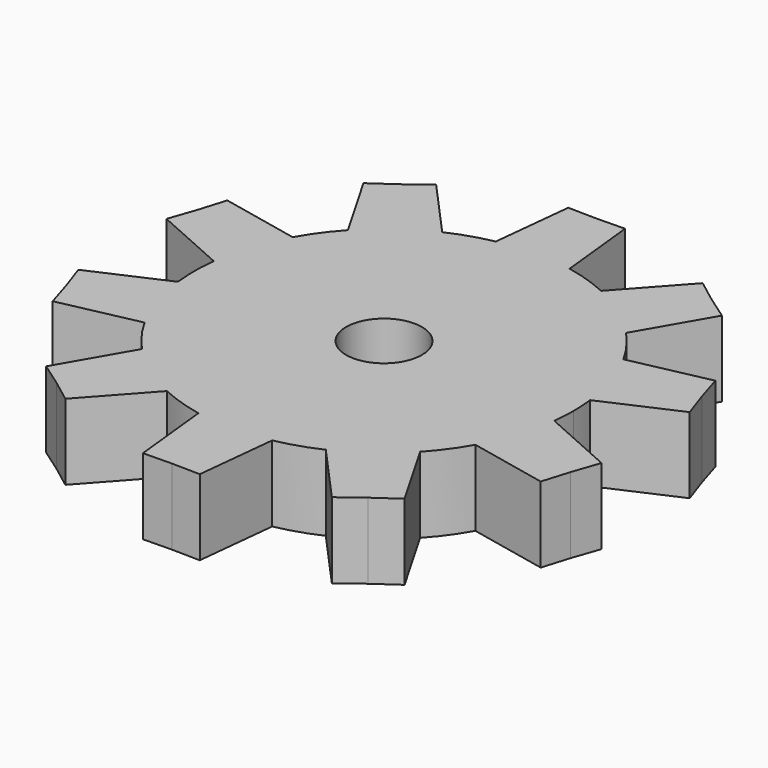
from build123d import *

# Parameters (mm, degrees)
F1_DEPTH = 2
F2_R     = 1
F3_DEPTH = 2.001


with BuildPart() as f1:
    # F0 (on Top) → F1 (new body)
    with BuildSketch(Plane.XY):
        with BuildLine():
            ThreePointArc((4.965015, -0.590448), (4.991246, -0.295742), (5, 0))
            ThreePointArc((5, 0), (4.991246, 0.295742), (4.965015, 0.590448))
            ThreePointArc((4.965015, 0.590448), (4.755283, 1.545085), (4.363838, 2.44068))
            ThreePointArc((4.363838, 2.44068), (4.045085, 2.938926), (3.669725, 3.396045))
            ThreePointArc((3.669725, 3.396045), (2.938926, 4.045085), (2.095823, 4.539551))
            ThreePointArc((2.095823, 4.539551), (1.545085, 4.755283), (0.972725, 4.904468))
            ThreePointArc((0.972725, 4.904468), (0, 5), (-0.972725, 4.904468))
            ThreePointArc((-0.972725, 4.904468), (-1.545085, 4.755283), (-2.095823, 4.539551))
            ThreePointArc((-2.095823, 4.539551), (-2.938926, 4.045085), (-3.669725, 3.396045))
            ThreePointArc((-3.669725, 3.396045), (-4.045085, 2.938926), (-4.363838, 2.44068))
            ThreePointArc((-4.363838, 2.44068), (-4.755283, 1.545085), (-4.965015, 0.590448))
            ThreePointArc((-4.965015, 0.590448), (-5, 0), (-4.965015, -0.590448))
            ThreePointArc((-4.965015, -0.590448), (-4.755283, -1.545085), (-4.363838, -2.44068))
            ThreePointArc((-4.363838, -2.44068), (-4.045085, -2.938926), (-3.669725, -3.396045))
            ThreePointArc((-3.669725, -3.396045), (-2.938926, -4.045085), (-2.095823, -4.539551))
            ThreePointArc((-2.095823, -4.539551), (-1.545085, -4.755283), (-0.972725, -4.904468))
            ThreePointArc((-0.972725, -4.904468), (0, -5), (0.972725, -4.904468))
            ThreePointArc((0.972725, -4.904468), (1.545085, -4.755283), (2.095823, -4.539551))
            ThreePointArc((2.095823, -4.539551), (2.938926, -4.045085), (3.669725, -3.396045))
            ThreePointArc((3.669725, -3.396045), (4.045085, -2.938926), (4.363838, -2.44068))
            ThreePointArc((4.363838, -2.44068), (4.755283, -1.545085), (4.965015, -0.590448))
        make_face()
        with BuildLine():
            ThreePointArc((4.363838, 2.44068), (4.755283, 1.545085), (4.965015, 0.590448))
            Line((4.965015, 0.590448), (6.902259, 1.454083))
            Line((6.902259, 1.454083), (6.657702, 2.163218))
            Line((6.657702, 2.163218), (6.438733, 2.880668))
            Line((6.438733, 2.880668), (4.363838, 2.44068))
        make_face()
        with BuildLine():
            Line((6.902259, -1.454083), (4.965015, -0.590448))
            ThreePointArc((4.965015, -0.590448), (4.755283, -1.545085), (4.363838, -2.44068))
            Line((4.363838, -2.44068), (6.438733, -2.880668))
            Line((6.438733, -2.880668), (6.657702, -2.163218))
            Line((6.657702, -2.163218), (6.902259, -1.454083))
        make_face()
        with BuildLine():
            ThreePointArc((2.095823, 4.539551), (2.938926, 4.045085), (3.669725, 3.396045))
            Line((3.669725, 3.396045), (4.729356, 5.233424))
            Line((4.729356, 5.233424), (4.114686, 5.663379))
            Line((4.114686, 5.663379), (3.515831, 6.115102))
            Line((3.515831, 6.115102), (2.095823, 4.539551))
        make_face()
        with BuildLine():
            Line((4.729356, -5.233424), (3.669725, -3.396045))
            ThreePointArc((3.669725, -3.396045), (2.938926, -4.045085), (2.095823, -4.539551))
            Line((2.095823, -4.539551), (3.515831, -6.115102))
            Line((3.515831, -6.115102), (4.114686, -5.663379))
            Line((4.114686, -5.663379), (4.729356, -5.233424))
        make_face()
        with BuildLine():
            ThreePointArc((-0.972725, 4.904468), (0, 5), (0.972725, 4.904468))
            Line((0.972725, 4.904468), (0.75, 7.013775))
            Line((0.75, 7.013775), (0, 7.000322))
            Line((0, 7.000322), (-0.75, 7.013775))
            Line((-0.75, 7.013775), (-0.972725, 4.904468))
        make_face()
        with BuildLine():
            Line((0.75, -7.013775), (0.972725, -4.904468))
            ThreePointArc((0.972725, -4.904468), (0, -5), (-0.972725, -4.904468))
            Line((-0.972725, -4.904468), (-0.75, -7.013775))
            Line((-0.75, -7.013775), (0, -7.000322))
            Line((0, -7.000322), (0.75, -7.013775))
        make_face()
        with BuildLine():
            ThreePointArc((-3.669725, 3.396045), (-2.938926, 4.045085), (-2.095823, 4.539551))
            Line((-2.095823, 4.539551), (-3.515831, 6.115102))
            Line((-3.515831, 6.115102), (-4.114686, 5.663379))
            Line((-4.114686, 5.663379), (-4.729356, 5.233424))
            Line((-4.729356, 5.233424), (-3.669725, 3.396045))
        make_face()
        with BuildLine():
            Line((-3.515831, -6.115102), (-2.095823, -4.539551))
            ThreePointArc((-2.095823, -4.539551), (-2.938926, -4.045085), (-3.669725, -3.396045))
            Line((-3.669725, -3.396045), (-4.729356, -5.233424))
            Line((-4.729356, -5.233424), (-4.114686, -5.663379))
            Line((-4.114686, -5.663379), (-3.515831, -6.115102))
        make_face()
        with BuildLine():
            ThreePointArc((-4.965015, 0.590448), (-4.755283, 1.545085), (-4.363838, 2.44068))
            Line((-4.363838, 2.44068), (-6.438733, 2.880668))
            Line((-6.438733, 2.880668), (-6.657702, 2.163218))
            Line((-6.657702, 2.163218), (-6.902259, 1.454083))
            Line((-6.902259, 1.454083), (-4.965015, 0.590448))
        make_face()
        with BuildLine():
            Line((-6.438733, -2.880668), (-4.363838, -2.44068))
            ThreePointArc((-4.363838, -2.44068), (-4.755283, -1.545085), (-4.965015, -0.590448))
            Line((-4.965015, -0.590448), (-6.902259, -1.454083))
            Line((-6.902259, -1.454083), (-6.657702, -2.163218))
            Line((-6.657702, -2.163218), (-6.438733, -2.880668))
        make_face()
    extrude(amount=F1_DEPTH)

    # F2 (on face) → F3 (cut, through all)
    with BuildSketch(Plane.XY.offset(2)):
        Circle(F2_R)
    extrude(amount=-F3_DEPTH, mode=Mode.SUBTRACT)


solid = f1.part
